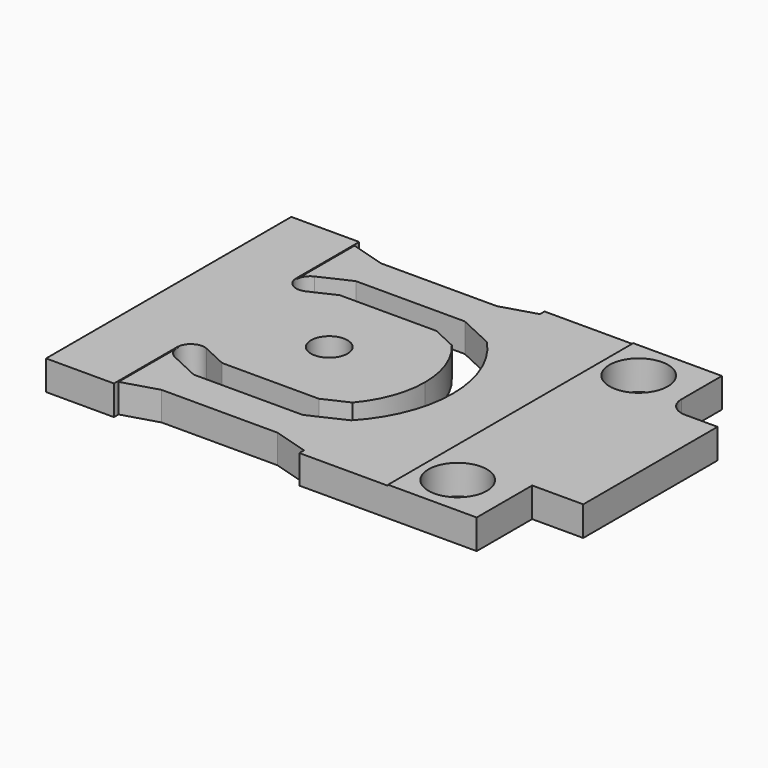
from build123d import *

# Parameters (mm, degrees)
F1_R     = 4
F2_DEPTH = 4.06
F3_D     = 5
F5_DEPTH = 25.4
F7_DEPTH = 25.4
F9_DEPTH = 0.127


with BuildPart() as f2:
    # F1 (on Top) → F2 (new body)
    with BuildSketch(Plane.XY):
        with BuildLine():
            Line((26, 14.04), (26, 21))
            Line((26, 21), (-33, 21))
            Line((-33, 21), (-33, -21))
            Line((-33, -21), (26, -21))
            Line((26, -21), (26, -11.5))
            Line((26, -11.5), (33, -11.5))
            Line((33, -11.5), (33, 11.5))
            Line((33, 11.5), (28.54, 11.5))
            ThreePointArc((28.54, 11.5), (26.7439487758, 12.2439487758), (26, 14.04))
        make_face()
        with Locations((19, -15.5)):
            Circle(F1_R, mode=Mode.SUBTRACT)
        with Locations((19, 15.5)):
            Circle(F1_R, mode=Mode.SUBTRACT)
    extrude(amount=F2_DEPTH)

    # F3 (through all)
    with Locations(Plane(origin=(0, 0, 0), x_dir=(1, 0, 0), z_dir=(0, 0, -1))):
        with Locations((-11, 0)):
            Hole(F3_D / 2)

    # F4 (on face) → F5 (cut)
    with BuildSketch(Plane(origin=(0, 0, 0), x_dir=(1, 0, 0), z_dir=(0, 0, -1))):
        Polygon((-23.7, -20.20625), (-23.7, -21), (1.7, -21), (1.7, -20.20625), (-3.0625, -18.7775), (-18.9375, -18.7775), align=None)
        Polygon((1.7, 21), (-23.7, 21), (-23.7, 20.20625), (-18.9375, 18.7775), (-3.0625, 18.7775), (1.7, 20.20625), align=None)
    extrude(amount=-F5_DEPTH, mode=Mode.SUBTRACT)

    # F6 (on face) → F7 (cut)
    with BuildSketch(Plane.XY.offset(4.06)):
        with BuildLine():
            ThreePointArc((-22.6000877886, 11.9506443438), (-23.5215163343, 9.4190402209), (-20.9899122114, 8.4976116752))
            Line((-20.9899122114, 8.4976116752), (-17.6239996184, 10.067162494))
            Line((-17.6239996184, 10.067162494), (-4.3760003816, 10.067162494))
            Line((-4.3760003816, 10.067162494), (-1.0100877886, 8.4976116752))
            ThreePointArc((-1.0100877886, 8.4976116752), (1.3090855116, 4.5270480494), (2.1151725179, 0))
            ThreePointArc((2.1151725179, 0), (1.3090855116, -4.5270480494), (-1.0100877886, -8.4976116752))
            Line((-1.0100877886, -8.4976116752), (-4.3760003816, -10.067162494))
            Line((-4.3760003816, -10.067162494), (-17.6239996184, -10.067162494))
            Line((-17.6239996184, -10.067162494), (-20.9899122114, -8.4976116752))
            ThreePointArc((-20.9899122114, -8.4976116752), (-23.5215163343, -9.4190402209), (-22.6000877886, -11.9506443438))
            Line((-22.6000877886, -11.9506443438), (-18.4686562831, -13.877162494))
            Line((-18.4686562831, -13.877162494), (-3.5313437169, -13.877162494))
            Line((-3.5313437169, -13.877162494), (1.3034740029, -11.6226499654))
            ThreePointArc((1.3034740029, -11.6226499654), (4.7273628563, -6.253920558), (5.9251725179, 0))
            ThreePointArc((5.9251725179, 0), (4.7273628563, 6.253920558), (1.3034740029, 11.6226499654))
            Line((1.3034740029, 11.6226499654), (-3.5313437169, 13.877162494))
            Line((-3.5313437169, 13.877162494), (-18.4686562831, 13.877162494))
            Line((-18.4686562831, 13.877162494), (-22.6000877886, 11.9506443438))
        make_face()
    extrude(amount=-F7_DEPTH, mode=Mode.SUBTRACT)

    # F8 (on face) → F9 (cut)
    with BuildSketch(Plane.XY.offset(4.06)):
        Polygon((13.85, 21), (-23.7, 21), (-23.7, 10.067162494), (2.1151725179, 10.067162494), (2.1151725179, -10.067162494), (-23.7, -10.067162494), (-23.7, -21), (13.85, -21), (13.85, 0), align=None)
    extrude(amount=-F9_DEPTH, mode=Mode.SUBTRACT)


solid = f2.part
